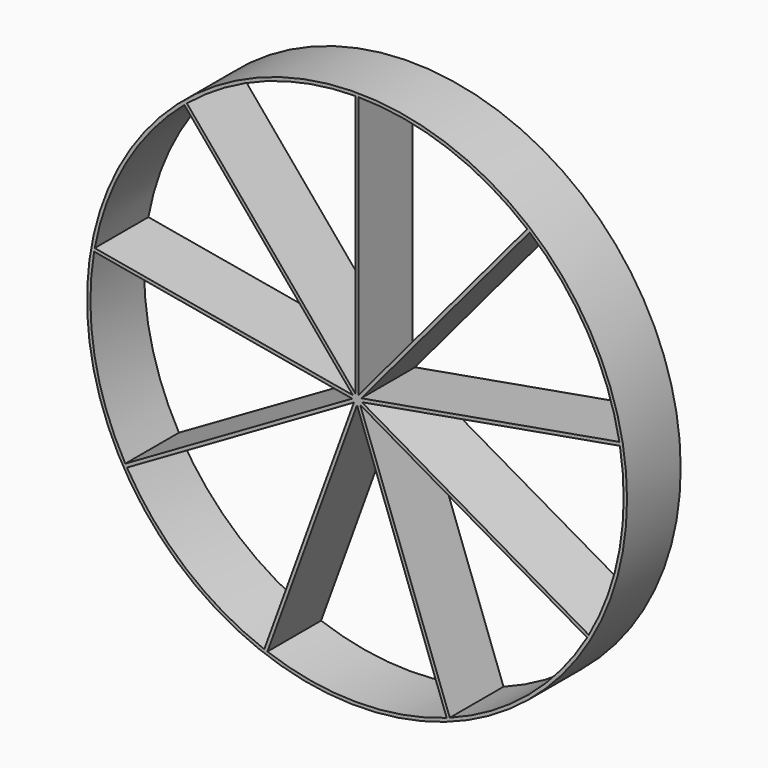
from build123d import *

# Parameters (mm, degrees)
F0_R     = 102.235
F0_R_2   = 100.965
F1_DEPTH = 25.4
F2_W     = 1.27
F2_H     = 101.0406836867
F3_DEPTH = 25.4
F5_COUNT = 9


with BuildPart() as f1:
    # F0 (on Front) → F1 (new body)
    with BuildSketch(Plane.XZ):
        Circle(F0_R)
        Circle(F0_R_2, mode=Mode.SUBTRACT)
    extrude(amount=F1_DEPTH)



with BuildPart() as f3:
    # F2 (on Front) → F3 (new body)
    with BuildSketch(Plane.XZ):
        with Locations((0, 50.5203418434)):
            Rectangle(F2_W, F2_H)
    extrude(amount=F3_DEPTH)


with BuildPart() as f1_1:
    add(f1.part)

    add(f3.part)  # F5 merges F3
    # F5: F3 ×9 about axis
    f5_axis = Axis((0, 4.7910101712, 0), (0, 1, 0))
    for i in range(1, F5_COUNT):
        add(f3.part.rotate(f5_axis, i * 360 / F5_COUNT))


solid = f1_1.part
